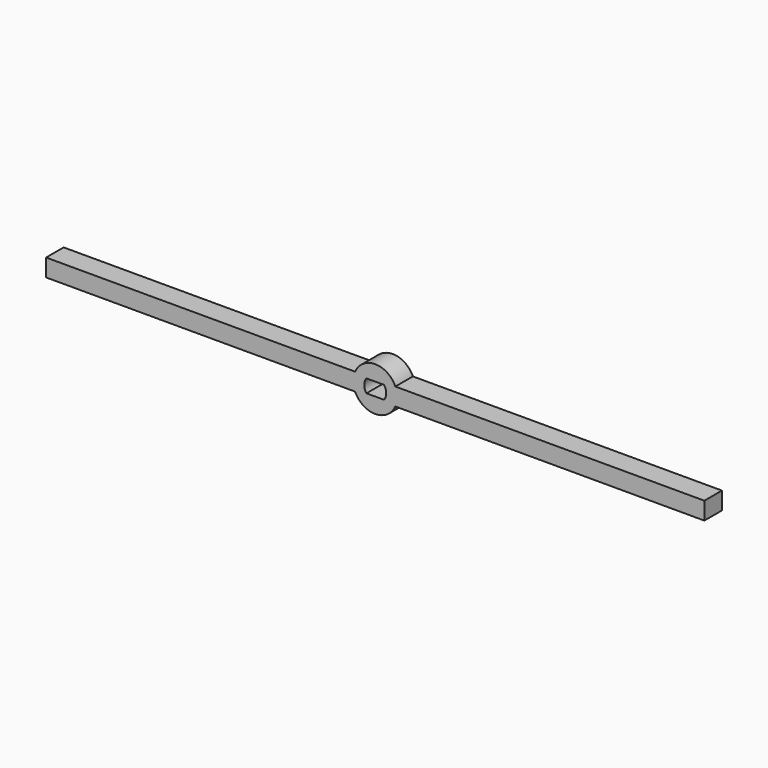
from build123d import *

# Parameters (mm, degrees)
F1_DEPTH = 5


with BuildPart() as f1:
    # F0 (on Front) → F1 (new body)
    with BuildSketch(Plane.XZ):
        with BuildLine():
            Line((-55.383616, 35.761271), (15.033808, 35.761271))
            Line((15.033808, 35.761271), (15.033808, 39.761271))
            Line((15.033808, 39.761271), (-55.383616, 39.761271))
            ThreePointArc((-55.383616, 39.761271), (-59.966192, 42.761271), (-64.548767, 39.761271))
            Line((-64.548767, 39.761271), (-134.966192, 39.761271))
            Line((-134.966192, 39.761271), (-134.966192, 35.761271))
            Line((-134.966192, 35.761271), (-64.548767, 35.761271))
            ThreePointArc((-64.548767, 35.761271), (-59.966192, 32.761271), (-55.383616, 35.761271))
        make_face()
        with BuildLine():
            ThreePointArc((-61.966192, 36.261271), (-62.466192, 37.761271), (-61.966192, 39.261271))
            Line((-61.966192, 39.261271), (-57.966192, 39.261271))
            ThreePointArc((-57.966192, 39.261271), (-57.466192, 37.761271), (-57.966192, 36.261271))
            Line((-57.966192, 36.261271), (-61.966192, 36.261271))
        make_face(mode=Mode.SUBTRACT)
    extrude(amount=F1_DEPTH)


solid = f1.part
